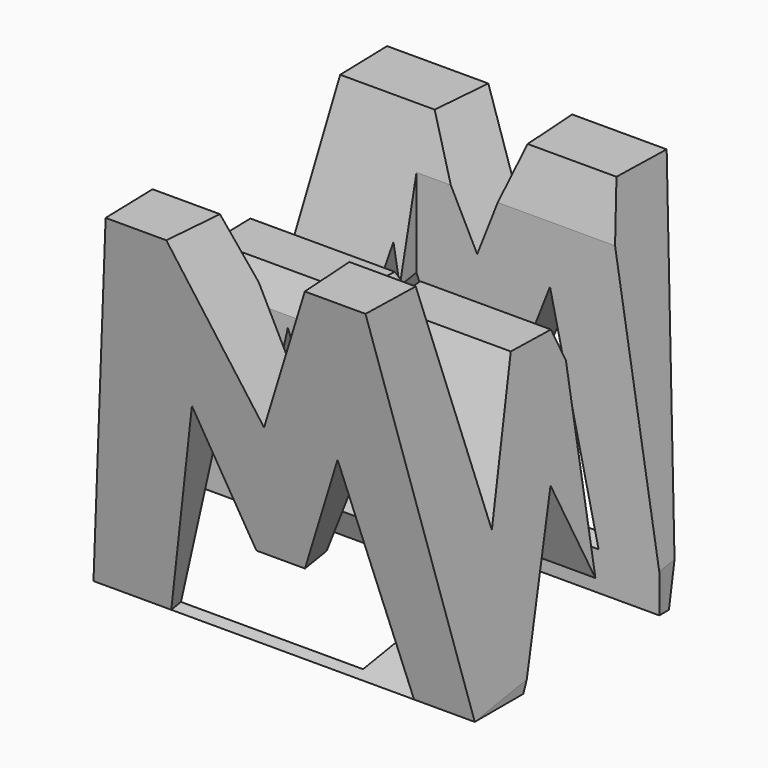
from build123d import *

# Parameters (mm, degrees)
F0_W     = 39.88993
F0_H     = 38.1
F1_DEPTH = 38.1
F3_DEPTH = 38.1
F4_DEPTH = 25.4
F6_DEPTH = 38.1
F8_W     = 25.4
F8_H     = 7.62
F9_DEPTH = 38.1


with BuildPart() as f1:
    # F0 (on Front) → F1 (new body)
    with BuildSketch(Plane.XZ):
        with Locations((-19.944965, 19.05)):
            Rectangle(F0_W, F0_H)
    extrude(amount=F1_DEPTH)

    # F2 (on face) → F3 (cut)
    with BuildSketch(Plane.YZ):
        Polygon((-6.35, 38.1), (-31.75, 38.1), (-26.67, 14.869336), (-21.59, 28.575), (-16.51, 28.575), (-11.43, 15.863791), align=None)
        Polygon((-31.75, 0), (-38.1, 38.1), (-38.1, 0), align=None)
        Polygon((-19.05, 15.875), (-25.4, 0), (-12.7, 0), align=None)
        Polygon((0, 0), (0, 38.1), (-6.35, 0), align=None)
    extrude(amount=-F3_DEPTH, mode=Mode.SUBTRACT)

    # F3_face (on face) → F4 (cut)
    with BuildSketch(Plane(origin=(-38.1, -19.167454, 30.46653), x_dir=(0, 1, 0), z_dir=(1, 0, 0))):
        Polygon((7.737454, -14.602739), (12.817454, 7.63347), (-12.582546, 7.63347), (-7.502546, -15.597195), (-2.422546, -1.89153), (2.657454, -1.89153), align=None)
        Polygon((-12.582546, -30.46653), (-18.932546, 7.63347), (-18.932546, -30.46653), align=None)
        Polygon((0.117454, -14.59153), (-6.232546, -30.46653), (6.467454, -30.46653), align=None)
        Polygon((19.167454, -30.46653), (19.167454, 7.63347), (12.817454, -30.46653), align=None)
    extrude(amount=-F4_DEPTH, mode=Mode.SUBTRACT)

    # F5 (on face) → F6 (cut)
    with BuildSketch(Plane(origin=(0, -30.891892, -5.148649), x_dir=(1, 0, 0), z_dir=(0, -0.986394, -0.164399))):
        Polygon((-12.7, 43.84521), (-27.18993, 43.84521), (-19.05, 27.97021), align=None)
        Polygon((-39.88993, 43.84521), (-39.88993, 5.219668), (-33.53993, 43.84521), align=None)
        Polygon((-26.67, 27.444668), (-31.75, 5.219668), (-6.35, 5.219668), (-11.43, 27.444668), (-16.51, 14.744668), (-21.59, 14.744668), align=None)
        Polygon((-6.35, 43.84521), (0, 5.219668), (0, 43.84521), align=None)
    extrude(amount=-F6_DEPTH, mode=Mode.SUBTRACT)

    # F8 (on offset) → F9 (cut)
    with BuildSketch(Plane.XY.offset(38.1)):
        with Locations((-12.7, -11.43)):
            Rectangle(F8_W, F8_H)
        with Locations((-25.4, -26.67)):
            Rectangle(F8_W, F8_H)
    extrude(amount=-F9_DEPTH, mode=Mode.SUBTRACT)


solid = f1.part
